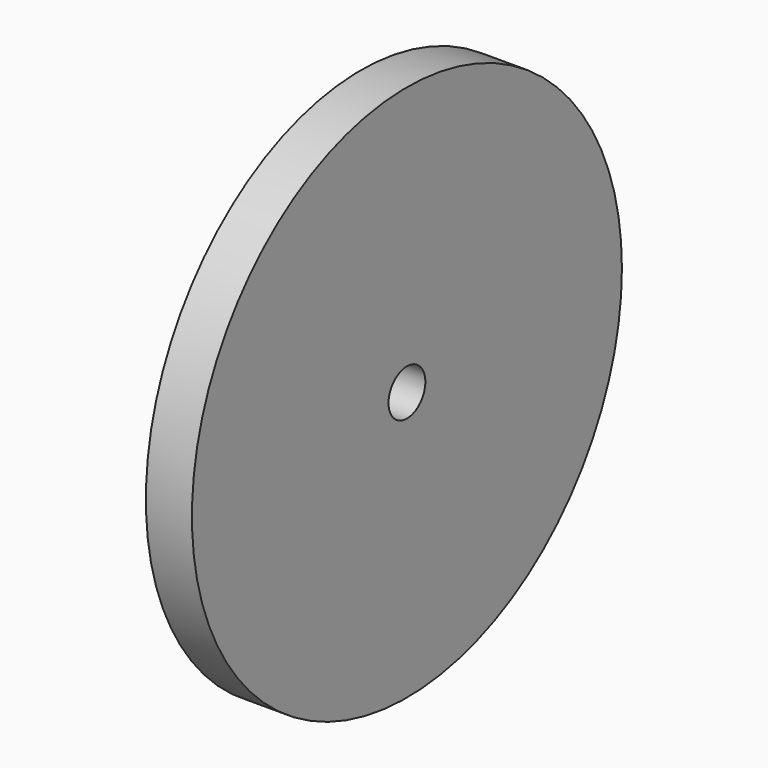
from build123d import *

# Parameters (mm, degrees)
F0_R      = 19.5
F1_DEPTH  = 7.5
F3_R      = 17.5
F4_DEPTH  = 2
F2_R      = 17.5
F5_DEPTH  = 2
F6_R      = 1.5
F7_DEPTH  = 25
F8_R      = 17.5
F8_R_2    = 2.5
F9_DEPTH  = 4
F10_R     = 17.5
F10_R_2   = 2.5
F11_DEPTH = 4
F12_R     = 20
F12_R_2   = 19.5
F12_R_3   = 17.5
F13_DEPTH = 25
F14_DEPTH = 4


with BuildPart() as f1:
    # F0 (on Right) → F1 (new body, symmetric)
    with BuildSketch(Plane.YZ):
        Circle(F0_R)
    extrude(amount=F1_DEPTH, both=True)

    # F3 (on face) → F4 (cut)
    with BuildSketch(Plane(origin=(-7.5, 0, 0), x_dir=(0, -1, 0), z_dir=(-1, 0, 0))):
        Circle(F3_R)
    extrude(amount=-F4_DEPTH, mode=Mode.SUBTRACT)

    # F2 (on face) → F5 (cut)
    with BuildSketch(Plane.YZ.offset(7.5)):
        Circle(F2_R)
    extrude(amount=-F5_DEPTH, mode=Mode.SUBTRACT)

    # F6 (on face) → F7 (cut)
    with BuildSketch(Plane.YZ.offset(5.5)):
        Circle(F6_R)
    extrude(amount=-F7_DEPTH, mode=Mode.SUBTRACT)

    # F8 (on face) → F9 (cut)
    with BuildSketch(Plane.YZ.offset(5.5)):
        Circle(F8_R)
        Circle(F8_R_2, mode=Mode.SUBTRACT)
    extrude(amount=-F9_DEPTH, mode=Mode.SUBTRACT)

    # F10 (on face) → F11 (cut)
    with BuildSketch(Plane(origin=(-5.5, 0, 0), x_dir=(0, -1, 0), z_dir=(-1, 0, 0))):
        Circle(F10_R)
        Circle(F10_R_2, mode=Mode.SUBTRACT)
    extrude(amount=-F11_DEPTH, mode=Mode.SUBTRACT)

    # F12 (on face) → F13 (cut)
    with BuildSketch(Plane.YZ.offset(7.5)):
        Circle(F12_R)
        Circle(F12_R_2, mode=Mode.SUBTRACT)
        Circle(F12_R_2)
        Circle(F12_R_3, mode=Mode.SUBTRACT)
    extrude(amount=-F13_DEPTH, mode=Mode.SUBTRACT)

    # F14 (cut): a face of the model
    f14_faces = [f1.faces().sort_by_distance(p)[0] for p in [
        (5.5, -2.4292893219, 0),
    ]]
    extrude(f14_faces, amount=-F14_DEPTH, mode=Mode.SUBTRACT)


solid = f1.part
